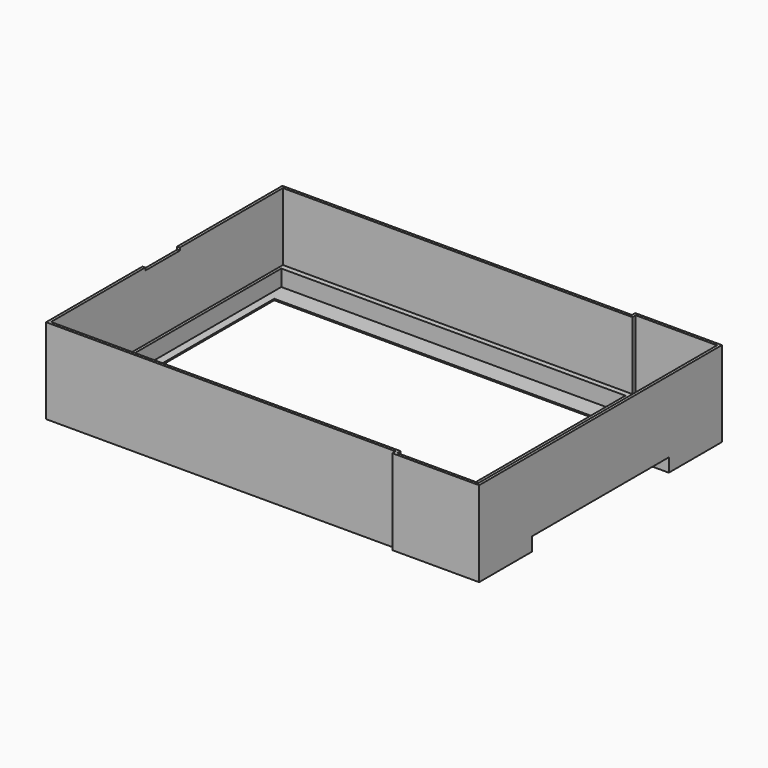
from build123d import *

# Parameters (mm, degrees)
F0_W      = 127
F0_H      = 99
F2_DEPTH  = 6.5
F0_W_2    = 118
F0_H_2    = 89
F3_DEPTH  = 0.5
F5_DEPTH  = 25
F1_R      = 5.25
F6_DEPTH  = 6.5
F7_W      = 6
F7_H      = 19
F7_W_2    = 17
F7_R      = 5.25
F8_DEPTH  = 5.5
F9_R      = 5.25
F10_DEPTH = 5
F11_W     = 1
F11_H     = 16
F12_DEPTH = 1


with BuildPart() as f2:
    # F0 (on Top) → F2 (new body)
    with BuildSketch(Plane.XY):
        Polygon((97, 56), (65, 56), (65, 54.5), (-64, 54.5), (-64, -54.5), (65, -54.5), (65, -56), (97, -56), align=None)
        with Locations((1.5, 2)):
            Rectangle(F0_W, F0_H, mode=Mode.SUBTRACT)
    extrude(amount=F2_DEPTH)

    # F0 (on Top) → F3 (join)
    with BuildSketch(Plane.XY):
        with Locations((1.5, 2)):
            Rectangle(F0_W, F0_H)
        Rectangle(F0_W_2, F0_H_2, mode=Mode.SUBTRACT)
    extrude(amount=F3_DEPTH)

    # F4 (on face) → F5 (join)
    with BuildSketch(Plane.XY.offset(6.5)):
        Polygon((97, -56), (97, 56), (65, 56), (65, 54.5), (-64, 54.5), (-64, -54.5), (65, -54.5), (65, -56), align=None)
        Polygon((-63, -53.5), (-63, 53.5), (66, 53.5), (66, 55), (96, 55), (96, -55), (66, -55), (66, -53.5), align=None, mode=Mode.SUBTRACT)
    extrude(amount=F5_DEPTH)

    # F1 (on face) → F6 (cut, through all)
    with BuildSketch(Plane.XY):
        with Locations((83.5, -42.25)):
            Circle(F1_R)
        with Locations((83.5, 42.25)):
            Circle(F1_R)
        with Locations((85, -26)):
            Circle(F1_R)
        with Locations((85, -13)):
            Circle(F1_R)
        with Locations((85, 0)):
            Circle(F1_R)
        with Locations((85, 13)):
            Circle(F1_R)
        with Locations((85, 26)):
            Circle(F1_R)
    extrude(amount=F6_DEPTH, mode=Mode.SUBTRACT)

    # F7 (on face) → F8 (cut)
    with BuildSketch(Plane.XY.offset(6.5)):
        with Locations((72, 42.25)):
            Rectangle(F7_W, F7_H)
        with Locations((83.5, 42.25)):
            Rectangle(F7_W_2, F7_H)
        with Locations((83.5, 42.25)):
            Circle(F7_R, mode=Mode.SUBTRACT)
        with Locations((72, -42.25)):
            Rectangle(F7_W, F7_H)
        with Locations((83.5, -42.25)):
            Rectangle(F7_W_2, F7_H)
        with Locations((83.5, -42.25)):
            Circle(F7_R, mode=Mode.SUBTRACT)
    extrude(amount=-F8_DEPTH, mode=Mode.SUBTRACT)

    # F9 (on face) → F10 (cut)
    with BuildSketch(Plane.XY):
        with BuildLine():
            Line((97, -31.5), (97, 31.5))
            Line((97, 31.5), (78, 31.5))
            ThreePointArc((78, 31.5), (74.464466, 30.035534), (73, 26.5))
            Line((73, 26.5), (73, -26.5))
            ThreePointArc((73, -26.5), (74.464466, -30.035534), (78, -31.5))
            Line((78, -31.5), (97, -31.5))
        make_face()
        with Locations((85, 0)):
            Circle(F9_R, mode=Mode.SUBTRACT)
    extrude(amount=F10_DEPTH, mode=Mode.SUBTRACT)

    # F11 (on face) → F12 (cut)
    with BuildSketch(Plane.XY.offset(31.5)):
        with Locations((-63.5, -2)):
            Rectangle(F11_W, F11_H)
    extrude(amount=-F12_DEPTH, mode=Mode.SUBTRACT)


solid = f2.part
